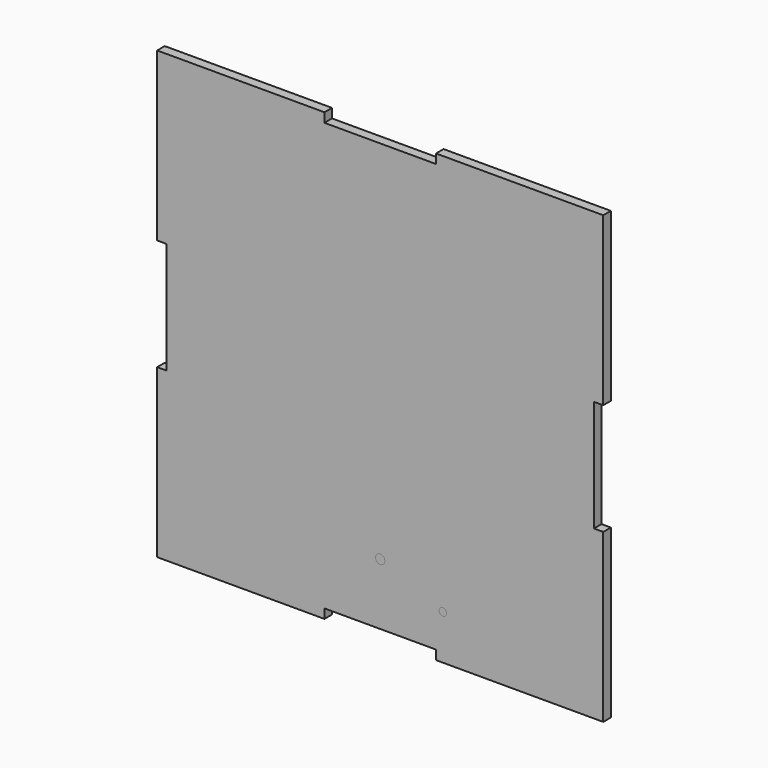
from build123d import *

# Parameters (mm, degrees)
F0_W     = 609.6
F0_H     = 609.6
F1_DEPTH = 12.954
F2_R     = 6.35
F2_R_2   = 5.08
F3_DEPTH = 6.35
F2_W     = 152.4
F2_H     = 12.7
F2_W_2   = 12.7
F2_H_2   = 152.4
F4_DEPTH = 12.954


with BuildPart() as f1:
    # F0 (on Front) → F1 (new body)
    with BuildSketch(Plane.XZ):
        Rectangle(F0_W, F0_H)
    extrude(amount=F1_DEPTH)

    # F2 (on face) → F4 (cut)
    with BuildSketch(Plane.XZ.offset(12.954)):
        with Locations((0, -298.45)):
            Rectangle(F2_W, F2_H)
        with Locations((298.45, 0)):
            Rectangle(F2_W_2, F2_H_2)
        with Locations((0, 298.45)):
            Rectangle(F2_W, F2_H)
        with Locations((-298.45, 0)):
            Rectangle(F2_W_2, F2_H_2)
    extrude(amount=-F4_DEPTH, mode=Mode.SUBTRACT)


with BuildPart() as f3:
    # F2 (on face) → F3 (new body)
    with BuildSketch(Plane.XZ.offset(12.954)):
        with Locations((0, -208.202451)):
            Circle(F2_R)
        with Locations((85.622561, -243.75412)):
            Circle(F2_R_2)
    extrude(amount=-F3_DEPTH)


solid = Compound([f1.part, f3.part])
